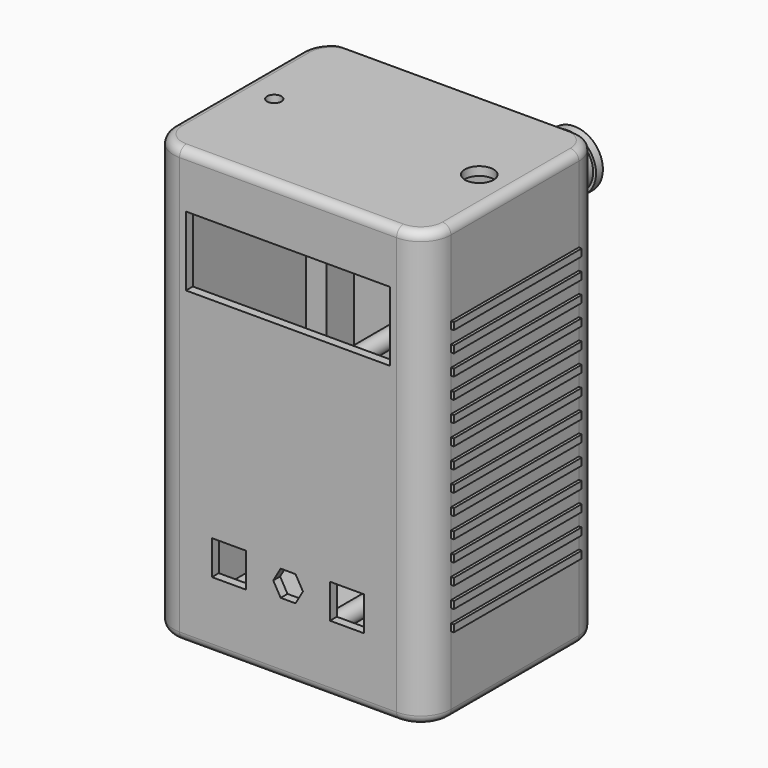
from build123d import *

# Parameters (mm, degrees)
CYLINDER008_R       = 1
CYLINDER008_DEPTH   = 66
CYLINDER007_R       = 1
CYLINDER007_DEPTH   = 66
SKETCH010_W         = 75
SKETCH010_H         = 145
PAD007_DEPTH        = 3
SKETCH011_R         = 12
PAD008_DEPTH        = 30
SKETCH012_R         = 9
POCKET002_DEPTH     = 58
SKETCH013_R         = 16
PAD009_DEPTH        = 3
SKETCH014_R         = 9
PAD010_DEPTH        = 15
SKETCH015_R         = 10
PAD011_DEPTH        = 3
SKETCH016_R         = 6.871234
POCKET003_DEPTH     = 29
PAD_DEPTH           = 146
THICKNESS_T         = 3
SKETCH001_W         = 71.4
SKETCH001_H         = 24.3
SKETCH001_W_2       = 12
SKETCH001_H_2       = 12
POCKET_DEPTH        = 5
SKETCH002_R         = 2.5
SKETCH002_R_2       = 5
POCKET001_DEPTH     = 5
SKETCH008_W         = 55.88388
SKETCH008_H         = 2.47
PAD005_DEPTH        = 1
SKETCH009_W         = 55.88388
SKETCH009_H         = 2.47
PAD006_DEPTH        = 1
LINEARPATTERN_COUNT = 14
LINEARPATTERN_PITCH = 7.153846
CYLINDER001_R       = 1
CYLINDER001_DEPTH   = 66
CYLINDER_R          = 3
CYLINDER_DEPTH      = 66
SKETCH019_W         = 68
SKETCH019_H         = 138
PAD014_DEPTH        = 41
SKETCH018_W         = 75
SKETCH018_H         = 145
PAD013_DEPTH        = 3
SKETCH017_W         = 80
SKETCH017_H         = 148
PAD012_DEPTH        = 15
CYLINDER004_R       = 1
CYLINDER004_DEPTH   = 66
CYLINDER003_R       = 3
CYLINDER003_DEPTH   = 66


with BuildPart() as hole2:
    # Cylinder008 → Cylinder008 (new body)
    with BuildSketch(Plane(origin=(0, 41, 85), x_dir=(1, 0, 0), z_dir=(0, -1, 0))):
        Circle(CYLINDER008_R)
    extrude(amount=CYLINDER008_DEPTH)


with BuildPart() as hole1:
    # Cylinder007 → Cylinder007 (new body)
    with BuildSketch(Plane(origin=(0, 77, 7), x_dir=(1, 0, 0), z_dir=(0, -1, 0))):
        Circle(CYLINDER007_R)
    extrude(amount=CYLINDER007_DEPTH)


with BuildPart() as cover:
    # Sketch010 → Pad007 (new body)
    with BuildSketch(Plane.XZ):
        with Locations((-16.152359, -23.755959)):
            Rectangle(SKETCH010_W, SKETCH010_H)
    extrude(amount=PAD007_DEPTH)

    # Sketch011 (on Face5 of Pad007) → Pad008 (join)
    with BuildSketch(Plane(origin=(0, 0, 0), x_dir=(1, 0, 0), z_dir=(0, 1, 0))):
        with Locations((-16.93029, -10.197113)):
            Circle(SKETCH011_R)
    extrude(amount=PAD008_DEPTH)

    # Sketch012 (on Face8 of Pad008) → Pocket002 (cut)
    with BuildSketch(Plane(origin=(0, 30, 0), x_dir=(1, 0, 0), z_dir=(0, 1, 0))):
        with Locations((-16.93029, -10.197113)):
            Circle(SKETCH012_R)
    extrude(amount=-POCKET002_DEPTH, mode=Mode.SUBTRACT)

    # Sketch013 (on Face9 of Pocket002) → Pad009 (join)
    with BuildSketch(Plane(origin=(0, 30, 0), x_dir=(1, 0, 0), z_dir=(0, 1, 0))):
        with Locations((-16.93029, -10.197113)):
            Circle(SKETCH013_R)
    extrude(amount=PAD009_DEPTH)

    # Sketch014 (on Face3 of Pad009) → Pad010 (join)
    with BuildSketch(Plane(origin=(0, 33, 0), x_dir=(1, 0, 0), z_dir=(0, 1, 0))):
        with Locations((-16.93029, -10.197113)):
            Circle(SKETCH014_R)
    extrude(amount=PAD010_DEPTH)

    # Sketch015 (on Face7 of Pad010) → Pad011 (join)
    with BuildSketch(Plane(origin=(0, 48, 0), x_dir=(1, 0, 0), z_dir=(0, 1, 0))):
        with Locations((-16.93029, -10.197113)):
            Circle(SKETCH015_R)
    extrude(amount=PAD011_DEPTH)

    # Sketch016 (on Face3 of Pad011) → Pocket003 (cut)
    with BuildSketch(Plane(origin=(0, 51, 0), x_dir=(1, 0, 0), z_dir=(0, 1, 0))):
        with Locations((-16.93029, -10.197113)):
            Circle(SKETCH016_R)
    extrude(amount=-POCKET003_DEPTH, mode=Mode.SUBTRACT)


with BuildPart() as cover_1:
    # Body001 placement: moved
    add(cover.part.moved(Location((17, 35.5, 97))))

    # Cut004: cut Hole1
    add(hole1.part, mode=Mode.SUBTRACT)

    # Cut005: cut Hole2
    add(hole2.part, mode=Mode.SUBTRACT)


with BuildPart() as main_body:
    # Sketch → Pad (new body)
    with BuildSketch(Plane.XY):
        with BuildLine():
            Line((-37.94194, 35.5), (37.94194, 35.5))
            ThreePointArc((45.5, 27.94194), (43.286295, 33.286295), (37.94194, 35.5))
            Line((45.5, 27.94194), (45.5, -27.94194))
            ThreePointArc((37.94194, -35.5), (43.286295, -33.286295), (45.5, -27.94194))
            Line((37.94194, -35.5), (-37.94194, -35.5))
            ThreePointArc((-45.5, -27.94194), (-43.286295, -33.286295), (-37.94194, -35.5))
            Line((-45.5, -27.94194), (-45.5, 27.94194))
            ThreePointArc((-37.94194, 35.5), (-43.286295, 33.286295), (-45.5, 27.94194))
        make_face()
    extrude(amount=PAD_DEPTH)

    # Thickness
    thickness_openings = [main_body.faces().sort_by_distance(p)[0] for p in [
        (0, 35.5, 73),
    ]]
    offset(amount=THICKNESS_T, openings=thickness_openings)

    # Sketch001 (on Face2 of Thickness) → Pocket (cut)
    with BuildSketch(Plane.XZ.offset(38.5)):
        with Locations((0, 117.979629)):
            Rectangle(SKETCH001_W, SKETCH001_H)
        with Locations((-20.629355, 26.557487)):
            Rectangle(SKETCH001_W_2, SKETCH001_H_2)
        with Locations((20.629355, 26.557487)):
            Rectangle(SKETCH001_W_2, SKETCH001_H_2)
        Polygon((2.598076, 30.987426), (-2.598076, 30.987426), (-5.196152, 26.487426), (-2.598076, 21.987426), (2.598076, 21.987426), (5.196152, 26.487426), align=None)
    extrude(amount=-POCKET_DEPTH, mode=Mode.SUBTRACT)

    # Sketch002 (on Face31 of Pocket) → Pocket001 (cut)
    with BuildSketch(Plane.XY.offset(149)):
        with Locations((-35.845848, 0.254305)):
            Circle(SKETCH002_R)
        with Locations((35.845848, 0.254305)):
            Circle(SKETCH002_R_2)
    extrude(amount=-POCKET001_DEPTH, mode=Mode.SUBTRACT)

    # Sketch008 (on Face3 of Pocket001) → Pad005 (join)
    with BuildSketch(Plane.YZ.offset(48.5)):
        with Locations((0, 25.235)):
            Rectangle(SKETCH008_W, SKETCH008_H)
    pad005 = extrude(amount=PAD005_DEPTH)

    # Sketch009 (on Face39 of Pad005) → Pad006 (join)
    with BuildSketch(Plane(origin=(-48.5, 0, 0), x_dir=(0, -1, 0), z_dir=(-1, 0, 0))):
        with Locations((0, 25.235)):
            Rectangle(SKETCH009_W, SKETCH009_H)
    pad006 = extrude(amount=PAD006_DEPTH)

    # LinearPattern: Pad005, Pad006 ×14
    with Locations(*[(0, 0, i * LINEARPATTERN_PITCH) for i in range(1, LINEARPATTERN_COUNT)]):
        add(pad005)
        add(pad006)


with BuildPart() as cylinder001:
    # Cylinder001 → Cylinder001 (new body)
    with BuildSketch(Plane(origin=(0, 32, 7), x_dir=(1, 0, 0), z_dir=(0, -1, 0))):
        Circle(CYLINDER001_R)
    extrude(amount=CYLINDER001_DEPTH)


with BuildPart() as bolt1:
    # Cylinder → Cylinder (new body)
    with BuildSketch(Plane(origin=(0, 32, 7), x_dir=(1, 0, 0), z_dir=(0, -1, 0))):
        Circle(CYLINDER_R)
    extrude(amount=CYLINDER_DEPTH)

    # Cut002: cut Cylinder001
    add(cylinder001.part, mode=Mode.SUBTRACT)


with BuildPart() as mold:
    # Sketch019 → Pad014 (new body)
    with BuildSketch(Plane.XZ):
        with Locations((-17.813881, -24.255959)):
            Rectangle(SKETCH019_W, SKETCH019_H)
    extrude(amount=PAD014_DEPTH)


with BuildPart() as mold_1:
    # Body004 placement: moved
    add(mold.part.moved(Location((18, 35.5, 97))))


with BuildPart() as obj1:
    # Sketch018 → Pad013 (new body)
    with BuildSketch(Plane.XZ):
        with Locations((-16.152359, -23.755959)):
            Rectangle(SKETCH018_W, SKETCH018_H)
    extrude(amount=PAD013_DEPTH)


with BuildPart() as obj1_1:
    # Body003 placement: moved
    add(obj1.part.moved(Location((17, 35.5, 97))))


with BuildPart() as edge_bolt1:
    # Sketch017 → Pad012 (new body)
    with BuildSketch(Plane.XZ):
        with Locations((-17.99364, -24.88821)):
            Rectangle(SKETCH017_W, SKETCH017_H)
    extrude(amount=PAD012_DEPTH)


with BuildPart() as edge_bolt1_1:
    # Body002 placement: moved
    add(edge_bolt1.part.moved(Location((17, 35.5, 97))))

    # Cut: cut obj1
    add(obj1_1.part, mode=Mode.SUBTRACT)

    # Cut001: cut Mold
    add(mold_1.part, mode=Mode.SUBTRACT)

    # Fusion: union Bolt1
    add(bolt1.part)


with BuildPart() as cylinder004:
    # Cylinder004 → Cylinder004 (new body)
    with BuildSketch(Plane(origin=(0, 32, 7), x_dir=(1, 0, 0), z_dir=(0, -1, 0))):
        Circle(CYLINDER004_R)
    extrude(amount=CYLINDER004_DEPTH)


with BuildPart() as fusion002:
    # Cylinder003 → Cylinder003 (new body)
    with BuildSketch(Plane(origin=(0, 32, 7), x_dir=(1, 0, 0), z_dir=(0, -1, 0))):
        Circle(CYLINDER003_R)
    extrude(amount=CYLINDER003_DEPTH)

    # Cut003: cut Cylinder004
    add(cylinder004.part, mode=Mode.SUBTRACT)


with BuildPart() as fusion002_1:
    # Cut003 placement: moved
    add(fusion002.part.moved(Location((0, 0, 78))))

    # Fusion001: union Edge+bolt1
    add(edge_bolt1_1.part)

    # Fusion002: union main_body
    add(main_body.part)


solid = Compound([cover_1.part, fusion002_1.part])
